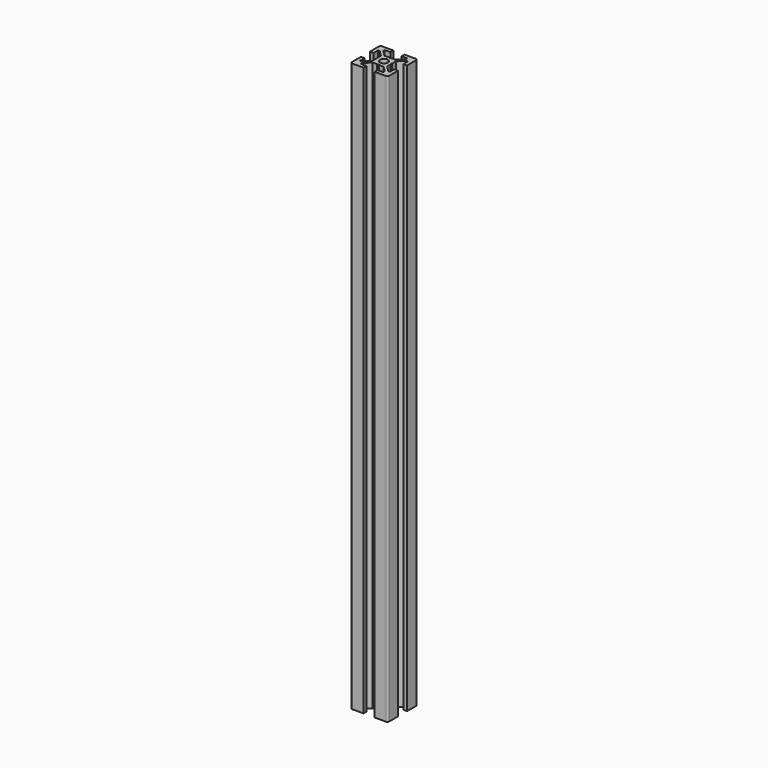
from build123d import *

# Parameters (mm, degrees)
F1_DEPTH = 304.8


with BuildPart() as f1:
    # F0 (on Top) → F1 (new body)
    with BuildSketch(Plane.XY):
        with BuildLine():
            Line((-8.004827, -6.007596), (-8.004827, -3.007596))
            Line((-8.004827, -3.007596), (-10.004827, -3.007596))
            Line((-10.004827, -3.007596), (-10.004827, -9.007596))
            ThreePointArc((-10.004827, -9.007596), (-9.711933, -9.714702), (-9.004827, -10.007596))
            Line((-9.004827, -10.007596), (-3.004827, -10.007596))
            Line((-3.004827, -10.007596), (-3.004827, -8.007596))
            Line((-3.004827, -8.007596), (-6.004827, -8.007596))
            Line((-6.004827, -8.007596), (-6.004827, -7.068256))
            Line((-6.004827, -7.068256), (-2.944167, -4.007596))
            Line((-2.944167, -4.007596), (-0.524442, -4.007596))
            Line((-0.524442, -4.007596), (-0.004827, -3.707596))
            Line((-0.004827, -3.707596), (0.514788, -4.007596))
            Line((0.514788, -4.007596), (2.934513, -4.007596))
            Line((2.934513, -4.007596), (5.995173, -7.068256))
            Line((5.995173, -7.068256), (5.995173, -8.007596))
            Line((5.995173, -8.007596), (2.995173, -8.007596))
            Line((2.995173, -8.007596), (2.995173, -10.007596))
            Line((2.995173, -10.007596), (8.995173, -10.007596))
            ThreePointArc((8.995173, -10.007596), (9.70228, -9.714702), (9.995173, -9.007596))
            Line((9.995173, -9.007596), (9.995173, -3.007596))
            Line((9.995173, -3.007596), (7.995173, -3.007596))
            Line((7.995173, -3.007596), (7.995173, -6.007596))
            Line((7.995173, -6.007596), (7.055833, -6.007596))
            Line((7.055833, -6.007596), (3.995173, -2.946936))
            Line((3.995173, -2.946936), (3.995173, -0.527211))
            Line((3.995173, -0.527211), (3.695173, -0.007596))
            Line((3.695173, -0.007596), (3.995173, 0.512019))
            Line((3.995173, 0.512019), (3.995173, 2.931744))
            Line((3.995173, 2.931744), (7.055833, 5.992404))
            Line((7.055833, 5.992404), (7.995173, 5.992404))
            Line((7.995173, 5.992404), (7.995173, 2.992404))
            Line((7.995173, 2.992404), (9.995173, 2.992404))
            Line((9.995173, 2.992404), (9.995173, 8.992404))
            ThreePointArc((9.995173, 8.992404), (9.70228, 9.699511), (8.995173, 9.992404))
            Line((8.995173, 9.992404), (2.995173, 9.992404))
            Line((2.995173, 9.992404), (2.995173, 7.992404))
            Line((2.995173, 7.992404), (5.995173, 7.992404))
            Line((5.995173, 7.992404), (5.995173, 7.053064))
            Line((5.995173, 7.053064), (2.934513, 3.992404))
            Line((2.934513, 3.992404), (0.514788, 3.992404))
            Line((0.514788, 3.992404), (-0.004827, 3.692404))
            Line((-0.004827, 3.692404), (-0.524442, 3.992404))
            Line((-0.524442, 3.992404), (-2.944167, 3.992404))
            Line((-2.944167, 3.992404), (-6.004827, 7.053064))
            Line((-6.004827, 7.053064), (-6.004827, 7.992404))
            Line((-6.004827, 7.992404), (-3.004827, 7.992404))
            Line((-3.004827, 7.992404), (-3.004827, 9.992404))
            Line((-3.004827, 9.992404), (-9.004827, 9.992404))
            ThreePointArc((-9.004827, 9.992404), (-9.711933, 9.699511), (-10.004827, 8.992404))
            Line((-10.004827, 8.992404), (-10.004827, 2.992404))
            Line((-10.004827, 2.992404), (-8.004827, 2.992404))
            Line((-8.004827, 2.992404), (-8.004827, 5.992404))
            Line((-8.004827, 5.992404), (-7.065487, 5.992404))
            Line((-7.065487, 5.992404), (-4.004827, 2.931744))
            Line((-4.004827, 2.931744), (-4.004827, 0.512019))
            Line((-4.004827, 0.512019), (-3.704827, -0.007596))
            Line((-3.704827, -0.007596), (-4.004827, -0.527211))
            Line((-4.004827, -0.527211), (-4.004827, -2.946936))
            Line((-4.004827, -2.946936), (-7.065487, -6.007596))
            Line((-7.065487, -6.007596), (-8.004827, -6.007596))
        make_face()
        with BuildLine():
            ThreePointArc((-0.004827, -2.107596), (-1.489751, -1.49252), (-2.104827, -0.007596))
            ThreePointArc((-2.104827, -0.007596), (-1.489751, 1.477329), (-0.004827, 2.092404))
            ThreePointArc((-0.004827, 2.092404), (1.480098, 1.477329), (2.095173, -0.007596))
            ThreePointArc((2.095173, -0.007596), (1.480098, -1.49252), (-0.004827, -2.107596))
        make_face(mode=Mode.SUBTRACT)
    extrude(amount=F1_DEPTH)


solid = f1.part
